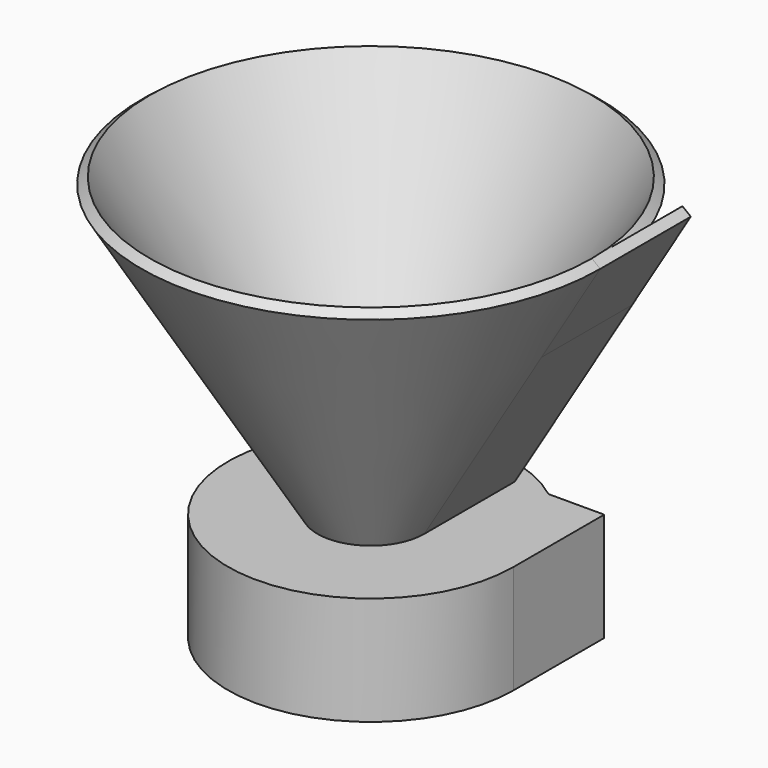
from build123d import *

# Parameters (mm, degrees)
F1_DEPTH = 25.4
F3_R     = 8.4043984654
F4_DEPTH = 50.8


with BuildPart() as f1:
    # F0 (on Front) → F1 (new body)
    with BuildSketch(Plane.XZ):
        Polygon((20.0516469777, 0), (0, 0), (26.3161629428, 43.4522676965), (39.4742444142, 65.1784015448), (37.6082088482, 66.6415809447), (-2.7521864977, 0), (-11.9916703552, 0), (-11.9916703552, -24.3765115738), (20.0516469777, -24.3765115738), align=None)
    extrude(amount=F1_DEPTH)

    # F1_face (on face) → F2 (revolve)
    with BuildSketch(Plane(origin=(6.7718176649, -25.4, -3.6801313591), x_dir=(1, 0, 0), z_dir=(0, -1, 0))):
        Polygon((13.2798293128, 3.6801313591), (-6.7718176649, 3.6801313591), (32.7024267493, 68.8585329039), (30.8363911833, 70.3217123039), (-9.5240041626, 3.6801313591), (-18.7634880201, 3.6801313591), (-18.7634880201, -20.6963802146), (13.2798293128, -20.6963802146), align=None)
    revolve(axis=Axis((-11.9916703552, -25.4, -12.1882557869), (0, 0, 1)))

    # F3 (on face) → F4 (cut)
    with BuildSketch(Plane(origin=(0, 0, -24.3765115738), x_dir=(1, 0, 0), z_dir=(0, 0, -1))):
        with Locations((-8.7055349723, 25.3879558295)):
            Circle(F3_R)
    extrude(amount=-F4_DEPTH, mode=Mode.SUBTRACT)


solid = f1.part
